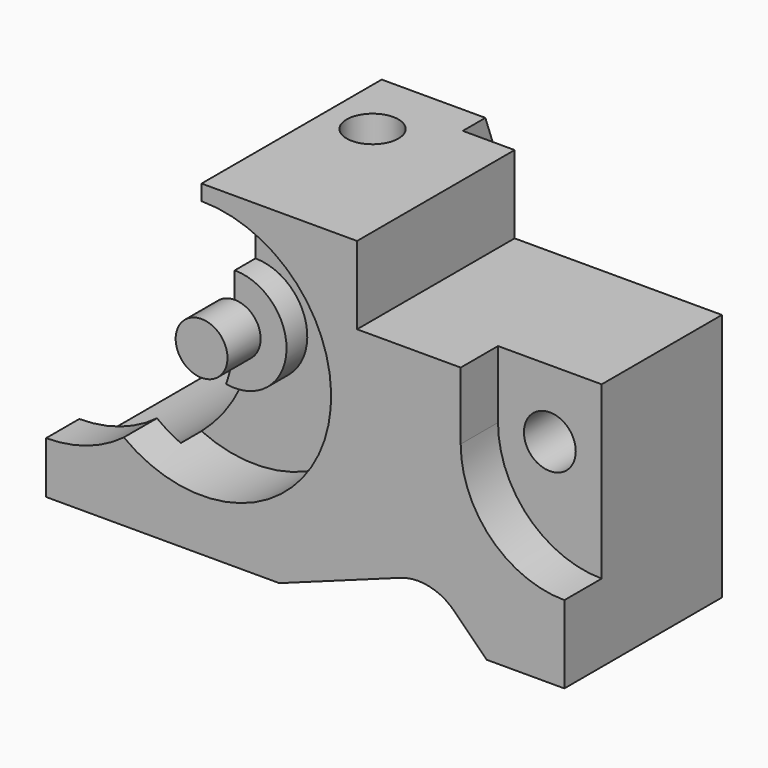
from build123d import *

# Parameters (mm, degrees)
F0_W      = 100
F0_H      = 63
F1_DEPTH  = 50
F2_W      = 40
F2_H      = 15
F3_DEPTH  = 50.001
F5_DEPTH  = 42
F6_R      = 25
F7_DEPTH  = 50.001
F8_W      = 33.424213
F8_H      = 28
F9_DEPTH  = 50.001
F10_R     = 25
F11_DEPTH = 13
F12_R     = 10
F13_DEPTH = 5
F14_DEPTH = 42
F15_R     = 5
F16_DEPTH = 8
F18_DEPTH = 70.001
F19_W     = 12
F19_H     = 63.228704
F20_DEPTH = 50
F22_DEPTH = 9
F23_R     = 5
F24_DEPTH = 41.001
F25_R     = 5
F26_DEPTH = 63.001
F28_DEPTH = 50.001


with BuildPart() as f1:
    # F0 (on Front) → F1 (new body)
    with BuildSketch(Plane.XZ):
        with Locations((50, 31.5)):
            Rectangle(F0_W, F0_H)
    extrude(amount=F1_DEPTH)

    # F2 (on face) → F3 (cut, through all)
    with BuildSketch(Plane.XZ.offset(50)):
        with Locations((80, 55.5)):
            Rectangle(F2_W, F2_H)
    extrude(amount=-F3_DEPTH, mode=Mode.SUBTRACT)

    # F4 (on face) → F5 (cut)
    with BuildSketch(Plane(origin=(0, 0, 0), x_dir=(-1, 0, 0), z_dir=(0, 1, 0))):
        with BuildLine():
            ThreePointArc((-30, 35), (0, 5), (30, 35))
            ThreePointArc((30, 35), (21.213203, 56.213203), (0, 65))
            ThreePointArc((0, 65), (-21.213203, 56.213203), (-30, 35))
        make_face()
        with BuildLine():
            ThreePointArc((-30, 35), (-21.213203, 56.213203), (0, 65))
            Line((0, 65), (-30, 65))
            Line((-30, 65), (-30, 35))
        make_face()
    extrude(amount=-F5_DEPTH, mode=Mode.SUBTRACT)

    # F6 (on face) → F7 (cut, through all)
    with BuildSketch(Plane(origin=(0, 0, 0), x_dir=(-1, 0, 0), z_dir=(0, 1, 0))):
        with Locations((0, 35)):
            Circle(F6_R)
    extrude(amount=-F7_DEPTH, mode=Mode.SUBTRACT)

    # F8 (on face) → F9 (cut, through all)
    with BuildSketch(Plane(origin=(0, 0, 0), x_dir=(-1, 0, 0), z_dir=(0, 1, 0))):
        with Locations((-13.287893, 49)):
            Rectangle(F8_W, F8_H)
    extrude(amount=-F9_DEPTH, mode=Mode.SUBTRACT)

    # F10 (on face) → F11 (cut)
    with BuildSketch(Plane.XZ.offset(50)):
        with Locations((30, 35)):
            Circle(F10_R)
    extrude(amount=-F11_DEPTH, mode=Mode.SUBTRACT)

    # F12 (on face) → F13 (join)
    with BuildSketch(Plane.XZ.offset(37)):
        with Locations((30, 35)):
            Circle(F12_R)
    extrude(amount=F13_DEPTH)

    # F4 (on face) → F14 (cut)
    with BuildSketch(Plane(origin=(0, 0, 0), x_dir=(-1, 0, 0), z_dir=(0, 1, 0))):
        with BuildLine():
            ThreePointArc((-30, 35), (0, 5), (30, 35))
            ThreePointArc((30, 35), (21.213203, 56.213203), (0, 65))
            ThreePointArc((0, 65), (-21.213203, 56.213203), (-30, 35))
        make_face()
        with BuildLine():
            ThreePointArc((-30, 35), (-21.213203, 56.213203), (0, 65))
            Line((0, 65), (-30, 65))
            Line((-30, 65), (-30, 35))
        make_face()
    extrude(amount=-F14_DEPTH, mode=Mode.SUBTRACT)

    # F15 (on face) → F16 (join)
    with BuildSketch(Plane.XZ.offset(42)):
        with Locations((30, 35)):
            Circle(F15_R)
    extrude(amount=F16_DEPTH)

    # F17 (on face) → F18 (cut, through all)
    with BuildSketch(Plane(origin=(30, 0, 0), x_dir=(0, -1, 0), z_dir=(-1, 0, 0))):
        Polygon((6.551464, 63), (0, 63), (0, 45), align=None)
    extrude(amount=-F18_DEPTH, mode=Mode.SUBTRACT)

    # F19 (on face) → F20 (cut)
    with BuildSketch(Plane.YZ.offset(100)):
        with Locations((-6, 31.614352)):
            Rectangle(F19_W, F19_H)
    extrude(amount=-F20_DEPTH, mode=Mode.SUBTRACT)

    # F21 (on face) → F22 (cut)
    with BuildSketch(Plane.XZ.offset(50)):
        with BuildLine():
            ThreePointArc((80, 35), (100, 15), (120, 35))
            ThreePointArc((120, 35), (106.929153, 53.761312), (84.801316, 48))
            ThreePointArc((84.801316, 48), (81.238688, 41.929153), (80, 35))
        make_face()
        with BuildLine():
            ThreePointArc((80, 35), (81.238688, 41.929153), (84.801316, 48))
            Line((84.801316, 48), (80, 48))
            Line((80, 48), (80, 35))
        make_face()
    extrude(amount=-F22_DEPTH, mode=Mode.SUBTRACT)

    # F23 (on face) → F24 (cut, through all)
    with BuildSketch(Plane.XZ.offset(41)):
        with Locations((90, 35)):
            Circle(F23_R)
    extrude(amount=-F24_DEPTH, mode=Mode.SUBTRACT)

    # F25 (on face) → F26 (cut, through all)
    with BuildSketch(Plane.XY.offset(63)):
        with Locations((39, -20)):
            Circle(F25_R)
    extrude(amount=-F26_DEPTH, mode=Mode.SUBTRACT)

    # F27 (on face) → F28 (cut, through all)
    with BuildSketch(Plane.XZ.offset(50)):
        with BuildLine():
            Line((68.339651, 8.494938), (45, 0))
            Line((45, 0), (85, 0))
            Line((85, 0), (78.83092, 6.16908))
            ThreePointArc((78.83092, 6.16908), (73.924249, 8.860972), (68.339651, 8.494938))
        make_face()
    extrude(amount=-F28_DEPTH, mode=Mode.SUBTRACT)


solid = f1.part
